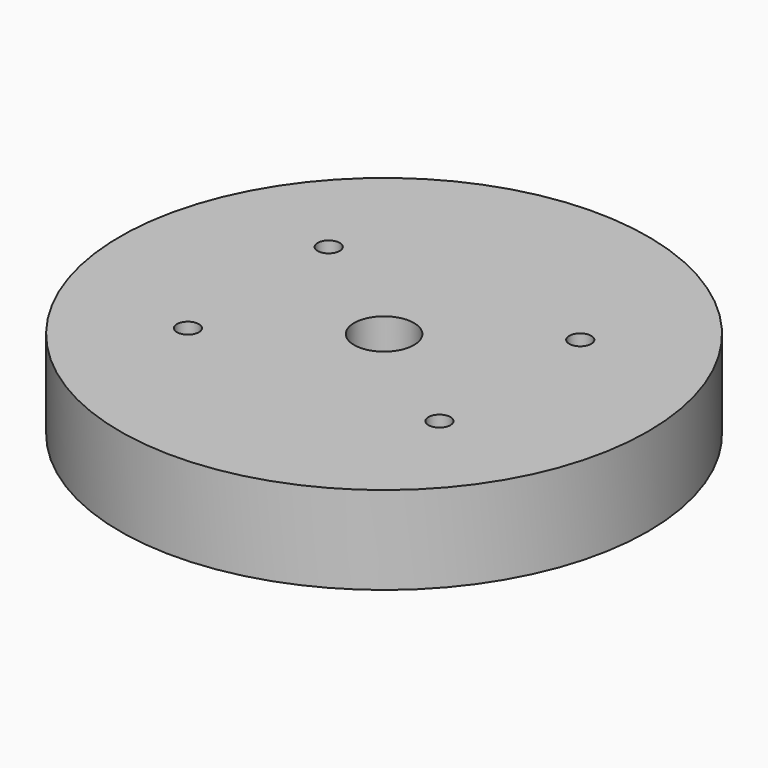
from build123d import *

# Parameters (mm, degrees)
SKETCH_R      = 30
PAD_DEPTH     = 10
SKETCH001_R   = 3.4
HOLE_DEPTH    = 10.001
SKETCH002_R   = 1.25
HOLE001_DEPTH = 10.001


with BuildPart() as part:
    # Sketch → Pad (new body)
    with BuildSketch(Plane.XY):
        Circle(SKETCH_R)
    extrude(amount=PAD_DEPTH)

    # Sketch001 → Hole (cut, through all)
    with BuildSketch(Plane.XY):
        Circle(SKETCH001_R)
    extrude(amount=HOLE_DEPTH, mode=Mode.SUBTRACT)

    # Sketch002 → Hole001 (cut, through all)
    with BuildSketch(Plane.XY):
        with Locations((-14.295, 10)):
            Circle(SKETCH002_R)
        with Locations((14.295, 10)):
            Circle(SKETCH002_R)
        with Locations((14.295, -10)):
            Circle(SKETCH002_R)
        with Locations((-14.295, -10)):
            Circle(SKETCH002_R)
    extrude(amount=HOLE001_DEPTH, mode=Mode.SUBTRACT)


solid = part.part
